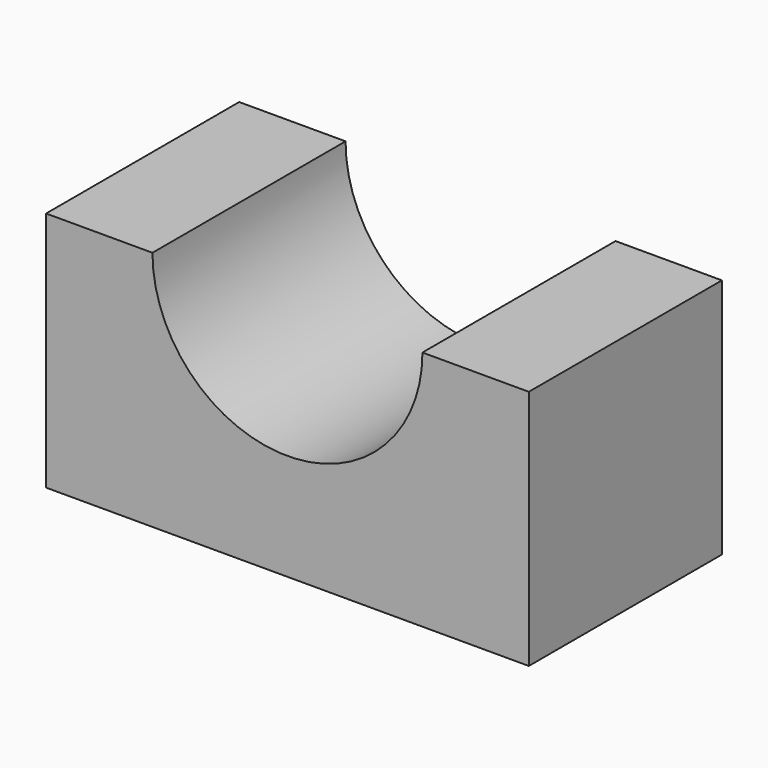
from build123d import *

# Parameters (mm, degrees)
F0_W     = 59
F0_H     = 59
F1_DEPTH = 29.5
F2_R     = 16.5
F3_DEPTH = 29.501
F4_W     = 59
F4_H     = 29.5
F5_DEPTH = 29.501


with BuildPart() as f1:
    # F0 (on Front) → F1 (new body)
    with BuildSketch(Plane.XZ):
        Rectangle(F0_W, F0_H)
    extrude(amount=F1_DEPTH)

    # F2 (on face) → F3 (cut, through all)
    with BuildSketch(Plane.XZ.offset(29.5)):
        Circle(F2_R)
    extrude(amount=-F3_DEPTH, mode=Mode.SUBTRACT)

    # F4 (on face) → F5 (cut, through all)
    with BuildSketch(Plane(origin=(0, 0, 0), x_dir=(-1, 0, 0), z_dir=(0, 1, 0))):
        with Locations((0, 14.75)):
            Rectangle(F4_W, F4_H)
    extrude(amount=-F5_DEPTH, mode=Mode.SUBTRACT)


solid = f1.part
